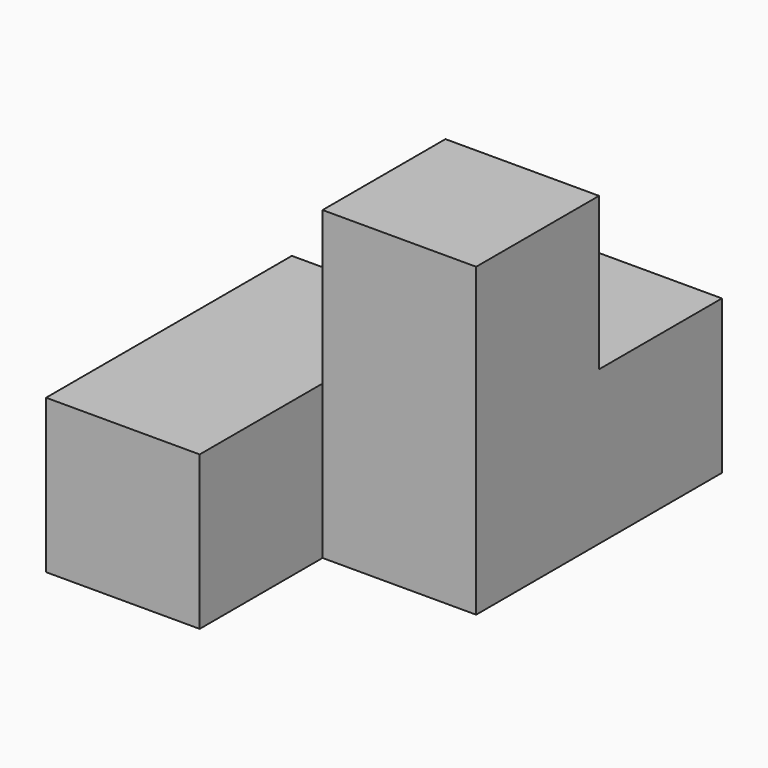
from build123d import *

# Parameters (mm, degrees)
F0_W     = 25.400002
F0_H     = 25.4
F0_W_2   = 25.4
F1_DEPTH = 25.4
F2_W     = 25.4
F2_H     = 25.4
F3_DEPTH = 25.4


with BuildPart() as f1:
    # F0 (on Top) → F1 (new body)
    with BuildSketch(Plane.XY):
        with Locations((-12.700001, -12.7)):
            Rectangle(F0_W, F0_H)
        with Locations((12.7, 12.7)):
            Rectangle(F0_W_2, F0_H)
        with Locations((-12.700001, 12.7)):
            Rectangle(F0_W, F0_H)
        with Locations((-12.700001, -12.7)):
            Rectangle(F0_W, F0_H)
        with Locations((12.7, 12.7)):
            Rectangle(F0_W_2, F0_H)
        with Locations((-12.700001, 12.7)):
            Rectangle(F0_W, F0_H)
        with Locations((12.7, 38.1)):
            Rectangle(F0_W_2, F0_H)
    extrude(amount=F1_DEPTH)

    # F2 (on Right) → F3 (join)
    with BuildSketch(Plane.YZ):
        with Locations((12.7, 37.954024)):
            Rectangle(F2_W, F2_H)
    extrude(amount=F3_DEPTH)


solid = f1.part
